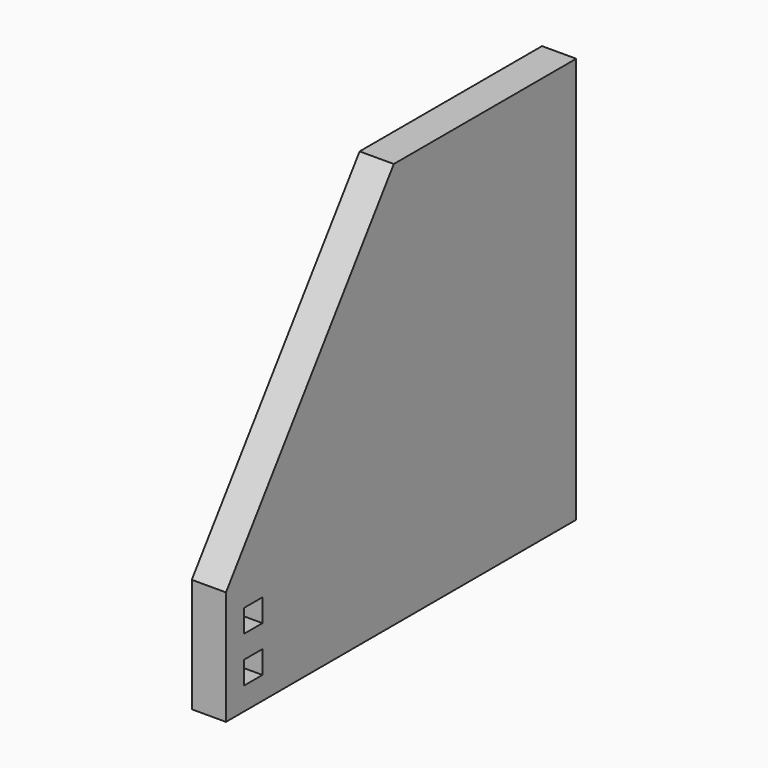
from build123d import *

# Parameters (mm, degrees)
F1_DEPTH = 15
F2_W     = 10
F2_H     = 10
F3_DEPTH = 15


with BuildPart() as f1:
    # F0 (on Right) → F1 (new body)
    with BuildSketch(Plane.YZ):
        Polygon((-96, -89), (96, -89), (96, 89), (-4, 89), (-96, -39), align=None)
    extrude(amount=F1_DEPTH)

    # F2 (on face) → F3 (cut)
    with BuildSketch(Plane.YZ.offset(15)):
        with Locations((-81, -54)):
            Rectangle(F2_W, F2_H)
        with Locations((-81, -74)):
            Rectangle(F2_W, F2_H)
    extrude(amount=-F3_DEPTH, mode=Mode.SUBTRACT)


solid = f1.part
